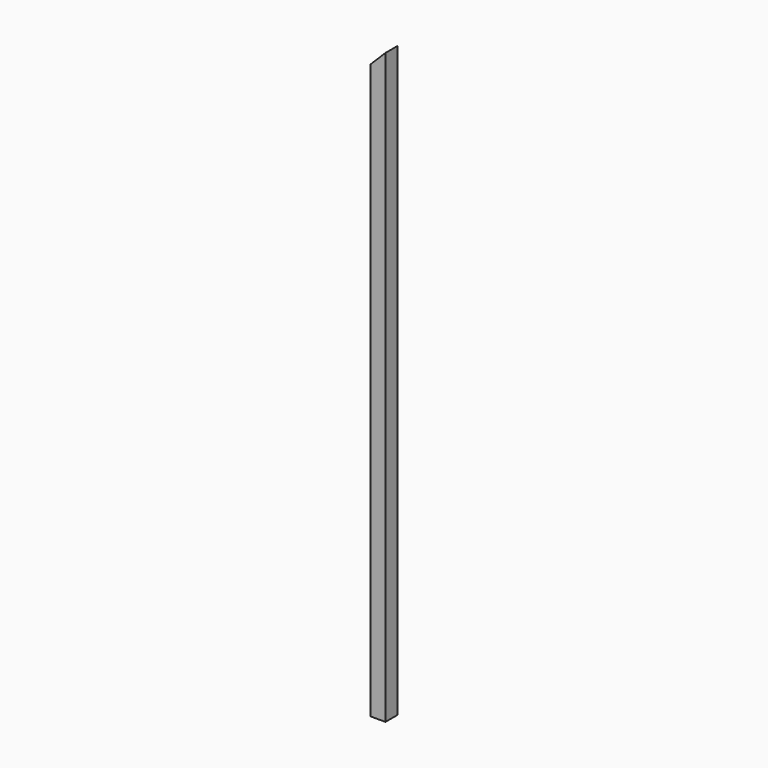
from build123d import *

# Parameters (mm, degrees)
F0_W     = 38.1
F0_H     = 38.1
F0_W_2   = 33.528
F0_H_2   = 33.528
F1_DEPTH = 1524
F3_DEPTH = 50.8


with BuildPart() as f1:
    # F0 (on Top) → F1 (new body)
    with BuildSketch(Plane.XY):
        with Locations((-19.05, -19.05)):
            Rectangle(F0_W, F0_H)
        with Locations((-19.05, -19.05)):
            Rectangle(F0_W_2, F0_H_2, mode=Mode.SUBTRACT)
    extrude(amount=F1_DEPTH)

    # F2 (on face) → F3 (cut)
    with BuildSketch(Plane.XZ.offset(38.1)):
        Polygon((-38.1, 1485.9), (0, 1524), (-38.1, 1524), align=None)
    extrude(amount=-F3_DEPTH, mode=Mode.SUBTRACT)


solid = f1.part
